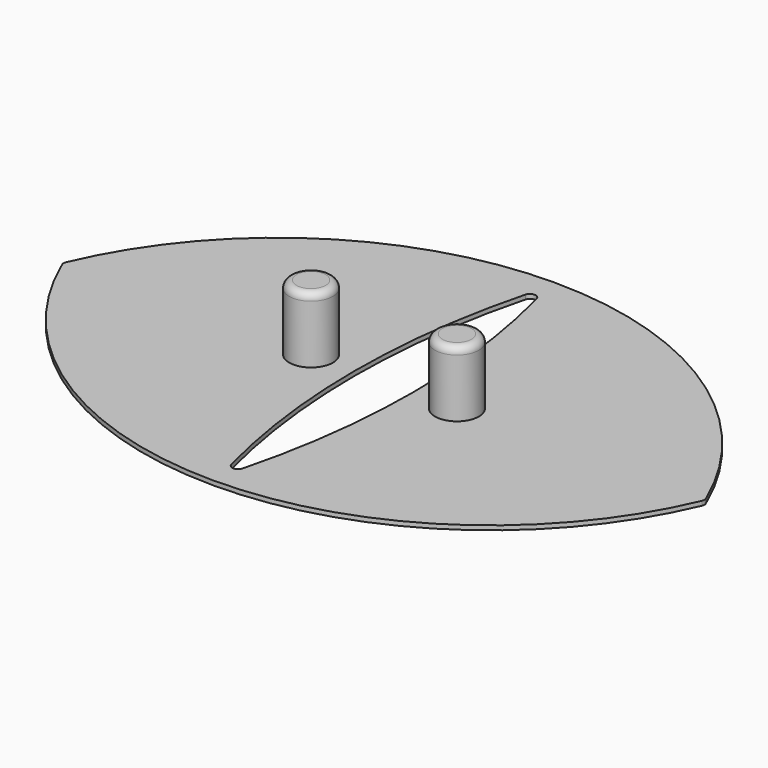
from build123d import *

# Parameters (mm, degrees)
F3_DEPTH = 0.3
F4_R     = 1.5
F5_DEPTH = 4.5
F6_R     = 0.5
F8_DEPTH = 0.301


with BuildPart() as f3:
    # F2 (on Top) → F3 (new body)
    with BuildSketch(Plane.XY):
        with BuildLine():
            ThreePointArc((21.9341482237, -0.1564722617), (21.9660226591, 0), (21.9341482237, 0.1564722617))
            ThreePointArc((21.9341482237, 0.1564722617), (0, 14.6666666667), (-21.9341482237, 0.1564722617))
            ThreePointArc((-21.9341482237, 0.1564722617), (-21.9660226591, 0), (-21.9341482237, -0.1564722617))
            ThreePointArc((-21.9341482237, -0.1564722617), (0, -14.6666666667), (21.9341482237, -0.1564722617))
        make_face()
    extrude(amount=F3_DEPTH)

    # F4 (on face) → F5 (join)
    with BuildSketch(Plane.XY.offset(0.3)):
        with Locations((-5, 0)):
            Circle(F4_R)
        with Locations((5, 0)):
            Circle(F4_R)
    extrude(amount=F5_DEPTH)

    # F6
    f6_edges = [f3.edges().sort_by_distance(p)[0] for p in [
        (-6.5, 0, 4.8),
        (3.5, 0, 4.8),
    ]]
    fillet(f6_edges, radius=F6_R)

    # F7 (on face) → F8 (cut, through all)
    with BuildSketch(Plane.XY.offset(0.3)):
        with BuildLine():
            ThreePointArc((-0.3870967742, -12.5971768966), (0, -12.8963994815), (0.3870967742, -12.5971768966))
            ThreePointArc((0.3870967742, -12.5971768966), (2, 0), (0.3870967742, 12.5971768966))
            ThreePointArc((0.3870967742, 12.5971768966), (0, 12.8963994815), (-0.3870967742, 12.5971768966))
            ThreePointArc((-0.3870967742, 12.5971768966), (-2, 0), (-0.3870967742, -12.5971768966))
        make_face()
    extrude(amount=-F8_DEPTH, mode=Mode.SUBTRACT)


solid = f3.part
